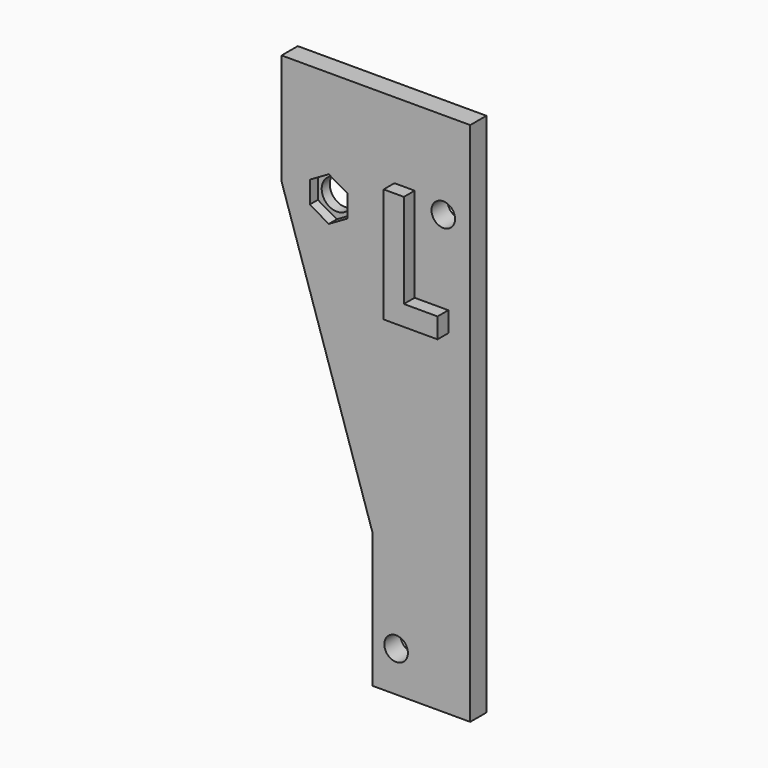
from build123d import *

# Parameters (mm, degrees)
SKETCH022_R     = 1.75
SKETCH022_R_2   = 2.25
PAD009_DEPTH    = 3
POCKET019_DEPTH = 1.5
PAD014_DEPTH    = 2


with BuildPart() as part:
    # Sketch022 → Pad009 (new body)
    with BuildSketch(Plane.XZ):
        Polygon((30.5, 48), (2.5, 48), (2.5, 31.5), (16, -10), (16, -30), (30.5, -30), align=None)
        with Locations((19.5, -24)):
            Circle(SKETCH022_R, mode=Mode.SUBTRACT)
        with Locations((9.5, 31.5)):
            Circle(SKETCH022_R_2, mode=Mode.SUBTRACT)
        with Locations((26.5, 35)):
            Circle(SKETCH022_R, mode=Mode.SUBTRACT)
    extrude(amount=-PAD009_DEPTH)

    # Sketch036 → Pocket019 (cut)
    with BuildSketch(Plane.XZ):
        Polygon((12.3145825623, 29.875), (12.3145825623, 33.125), (9.5, 34.75), (6.6854174377, 33.125), (6.6854174377, 29.875), (9.5, 28.25), align=None)
    extrude(amount=-POCKET019_DEPTH, mode=Mode.SUBTRACT)

    # Sketch039 → Pad014 (join)
    with BuildSketch(Plane.XZ):
        Polygon((22.25, 36.75), (22.25, 22.75), (27.25, 22.75), (27.25, 19.75), (19.25, 19.75), (19.25, 36.75), align=None)
    extrude(amount=PAD014_DEPTH)


with BuildPart() as part_1:
    # Body004 placement: moved
    add(part.part.moved(Location((0, 40, 0))))


solid = part_1.part
